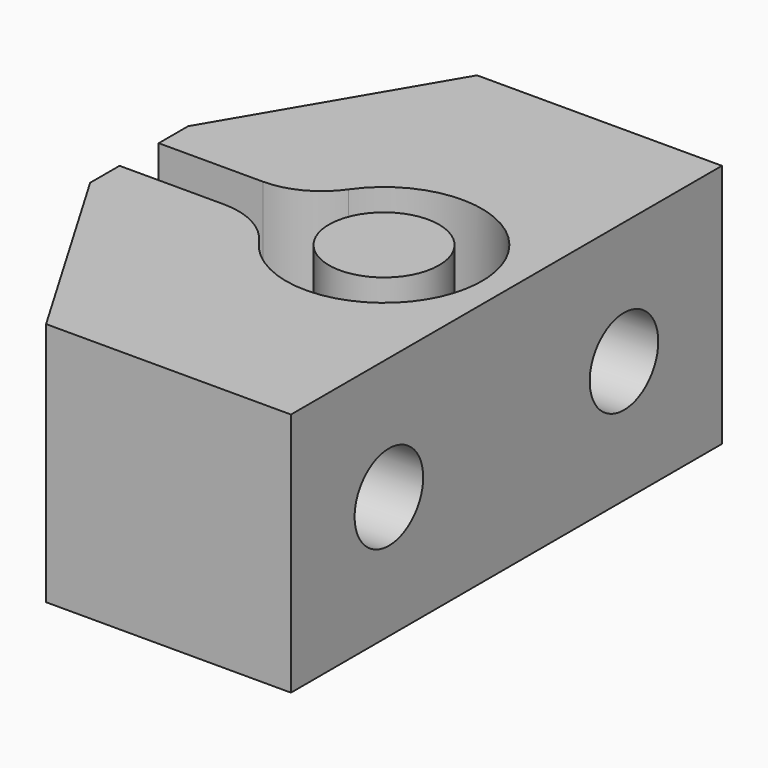
from build123d import *

# Parameters (mm, degrees)
PAD_DEPTH       = 10
SKETCH001_R     = 1.75
POCKET_DEPTH    = 15.001
SKETCH002_R     = 4
POCKET001_DEPTH = 5
SKETCH005_R     = 4
SKETCH005_R_2   = 2.25
POCKET002_DEPTH = 9
SKETCH006_W     = 6.5
SKETCH006_H     = 2
POCKET003_DEPTH = 9
FILLET_R        = 3
FILLET001_R     = 3


with BuildPart() as part:
    # Sketch → Pad (new body)
    with BuildSketch(Plane.XY):
        Polygon((-5, 11), (5, 11), (5, -11), (-5, -11), (-10, -2.5), (-10, 2.5), align=None)
    extrude(amount=PAD_DEPTH)

    # Sketch001 → Pocket (cut, through all)
    with BuildSketch(Plane.YZ.offset(5)):
        with Locations((-6, 5)):
            Circle(SKETCH001_R)
        with Locations((6, 5)):
            Circle(SKETCH001_R)
    extrude(amount=-POCKET_DEPTH, mode=Mode.SUBTRACT)

    # Sketch002 → Pocket001 (cut)
    with BuildSketch(Plane(origin=(-10, 0, 0), x_dir=(0, -1, 0), z_dir=(-1, 0, 0))):
        with Locations((-6, 5)):
            Circle(SKETCH002_R)
        with Locations((6, 5)):
            Circle(SKETCH002_R)
    extrude(amount=-POCKET001_DEPTH, mode=Mode.SUBTRACT)

    # Sketch005 → Pocket002 (cut)
    with BuildSketch(Plane.XY.offset(10)):
        Circle(SKETCH005_R)
        Circle(SKETCH005_R_2, mode=Mode.SUBTRACT)
    extrude(amount=-POCKET002_DEPTH, mode=Mode.SUBTRACT)

    # Sketch006 → Pocket003 (cut)
    with BuildSketch(Plane.XY.offset(10)):
        with Locations((-6.75, 0)):
            Rectangle(SKETCH006_W, SKETCH006_H)
    extrude(amount=-POCKET003_DEPTH, mode=Mode.SUBTRACT)

    # Fillet
    fillet_edges = [part.edges().sort_by_distance(p)[0] for p in [
        (-3.872983, 1, 5.5),
    ]]
    fillet(fillet_edges, radius=FILLET_R)

    # Fillet001
    fillet001_edges = [part.edges().sort_by_distance(p)[0] for p in [
        (-3.872983, -1, 5.5),
    ]]
    fillet(fillet001_edges, radius=FILLET001_R)


solid = part.part
